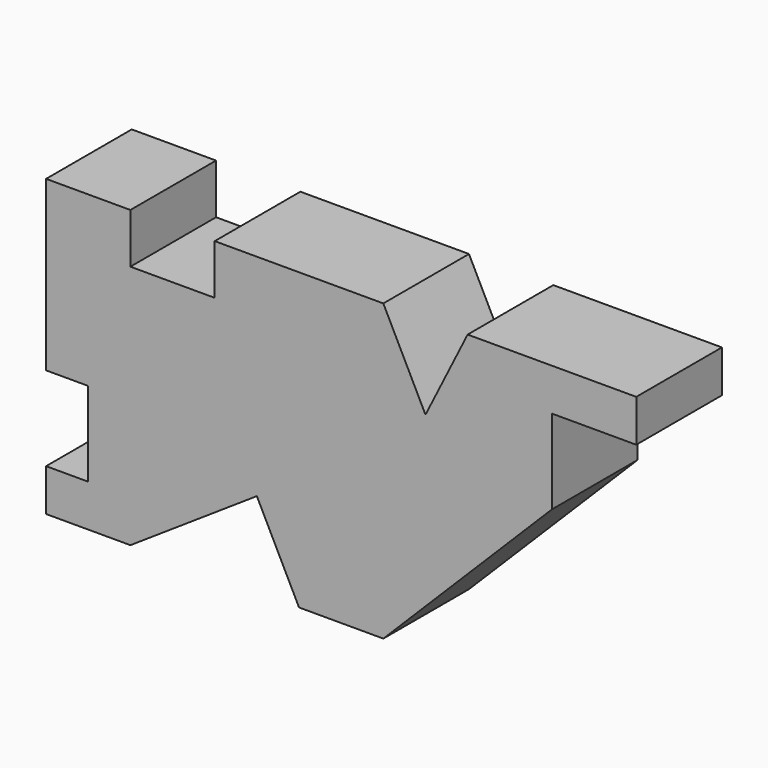
from build123d import *

# Parameters (mm, degrees)
F1_DEPTH = 25.4


with BuildPart() as f1:
    # F0 (on Front) → F1 (new body)
    with BuildSketch(Plane.XZ):
        Polygon((-60, 60), (-80, 60), (-80, 20), (-70, 20), (-70, 0), (-80, 0), (-80, -10), (-60, -10), (-30, 10), (-20, -10), (0, -10), (40, 30), (40, 50), (60, 50), (60, 60), (20, 60), (10, 40), (0, 60), (-40, 60), (-40, 48.157927), (-60, 48.157927), align=None)
    extrude(amount=F1_DEPTH)


solid = f1.part
